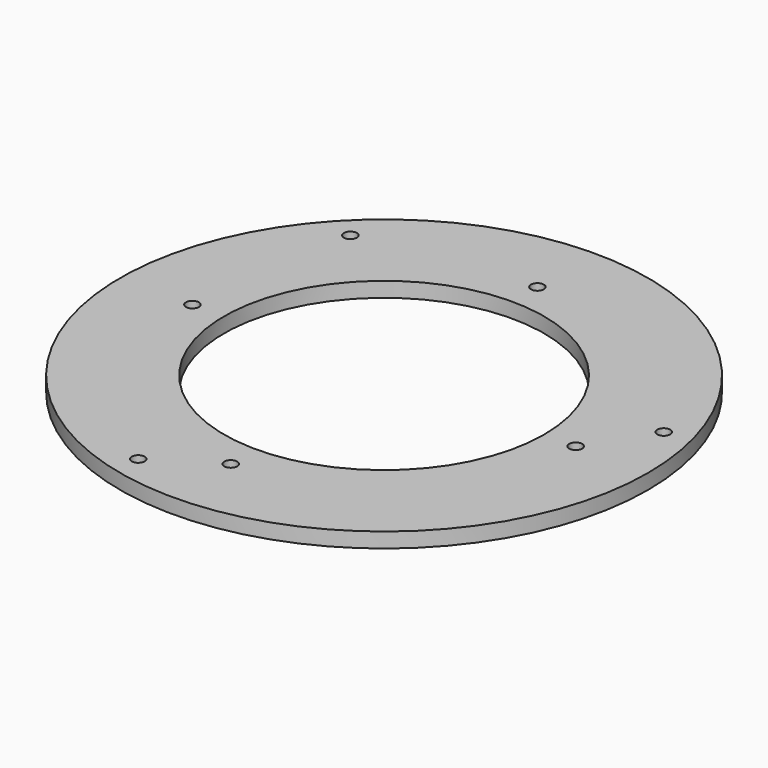
from build123d import *

# Parameters (mm, degrees)
F0_R     = 98.425
F0_R_2   = 2.413
F0_R_3   = 59.69
F1_DEPTH = 5.588


with BuildPart() as f1:
    # F0 (on Top) → F1 (new body)
    with BuildSketch(Plane.XY):
        Circle(F0_R)
        with Locations((-23.009013, -85.870806)):
            Circle(F0_R_2, mode=Mode.SUBTRACT)
        with Locations((0, -71.4629)):
            Circle(F0_R_2, mode=Mode.SUBTRACT)
        with Locations((-71.4629, 0)):
            Circle(F0_R_2, mode=Mode.SUBTRACT)
        with Locations((-62.861793, 62.861793)):
            Circle(F0_R_2, mode=Mode.SUBTRACT)
        Circle(F0_R_3, mode=Mode.SUBTRACT)
        with Locations((71.4629, 0)):
            Circle(F0_R_2, mode=Mode.SUBTRACT)
        with Locations((85.870806, 23.009013)):
            Circle(F0_R_2, mode=Mode.SUBTRACT)
        with Locations((0, 71.4629)):
            Circle(F0_R_2, mode=Mode.SUBTRACT)
    extrude(amount=F1_DEPTH)


solid = f1.part
